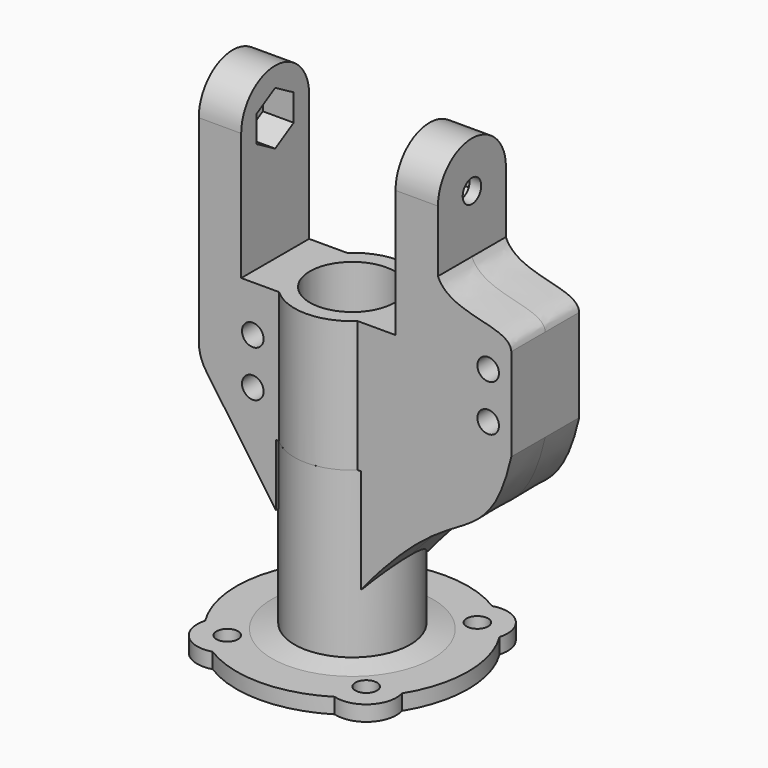
from build123d import *

# Parameters (mm, degrees)
SKETCH003_R          = 5.5
PAD002_DEPTH         = 17
SKETCH005_R          = 7.5
SKETCH005_R_2        = 5.5
PAD004_DEPTH         = 32
SKETCH001_W          = 5.5
SKETCH001_H          = 11
PAD006_DEPTH         = 31
SKETCH006_R          = 1.5
POCKET_DEPTH         = 15.501
POCKET_DEPTH_BACK    = 15.501
POCKET001_DEPTH      = 14
SKETCH004_R          = 1.4
PAD007_DEPTH         = 5.5
SKETCH008_R          = 1.4
PAD008_DEPTH         = 2
SKETCH009_R          = 1.4
POCKET002_DEPTH      = 15.001
POCKET002_DEPTH_BACK = 15.001
SKETCH012_R          = 5.5
POCKET004_DEPTH      = 32.001
POCKET011_DEPTH      = 15.501
POCKET011_DEPTH_BACK = 25.001


with BuildPart() as part:
    # Sketch003 → Pad002 (new body)
    with BuildSketch(Plane.XY.offset(9)):
        with BuildLine():
            ThreePointArc((-5.09902, -5.5), (0, -7.5), (5.09902, -5.5))
            Line((10, -5.5), (5.09902, -5.5))
            Line((10, 5.5), (10, -5.5))
            Line((5.09902, 5.5), (10, 5.5))
            ThreePointArc((5.09902, 5.5), (0, 7.5), (-5.09902, 5.5))
            Line((-10, 5.5), (-5.09902, 5.5))
            Line((-10, -5.5), (-10, 5.5))
            Line((-5.09902, -5.5), (-10, -5.5))
        make_face()
        Circle(SKETCH003_R, mode=Mode.SUBTRACT)
    extrude(amount=-PAD002_DEPTH)

    # Sketch005 → Pad004 (join)
    with BuildSketch(Plane.XY):
        Circle(SKETCH005_R)
        Circle(SKETCH005_R_2, mode=Mode.SUBTRACT)
    extrude(amount=-PAD004_DEPTH)

    # Sketch001 → Pad006 (join)
    with BuildSketch(Plane.XY):
        with Locations((-12.75, 0)):
            Rectangle(SKETCH001_W, SKETCH001_H)
        with Locations((12.75, 0)):
            Rectangle(SKETCH001_W, SKETCH001_H)
    extrude(amount=PAD006_DEPTH)

    # Sketch006 → Pocket (cut, two sides)
    with BuildSketch(Plane.YZ) as pocket_sk:
        with Locations((0, 24.995)):
            Circle(SKETCH006_R)
    extrude(amount=-POCKET_DEPTH, mode=Mode.SUBTRACT)
    extrude(pocket_sk.sketch, amount=POCKET_DEPTH_BACK, mode=Mode.SUBTRACT)

    # Sketch007 → Pocket001 (cut, symmetric)
    with BuildSketch(Plane.YZ):
        Polygon((3.000778, 23.2625), (3.000778, 26.7275), (0, 28.46), (-3.000778, 26.7275), (-3.000778, 23.2625), (0, 21.53), align=None)
    extrude(amount=POCKET001_DEPTH, both=True, mode=Mode.SUBTRACT)

    # Sketch004 → Pad007 (join, symmetric)
    with BuildSketch(Plane.XZ):
        with BuildLine():
            Line((-5.5, 0), (-15.5, 0))
            ThreePointArc((-15.5, 0), (-15.245443, -1.653882), (-14.505336, -3.15467))
            Line((-14.505336, -3.15467), (-5.5, -16.015623))
            Line((-5.5, -16.015623), (-5.5, 0))
        make_face()
        with BuildLine():
            Line((25, 0), (25, 12))
            add(Edge.make_bspline(
                [(25, 12), (24.769218, 14.83565), (17.079927, 13.648218), (15.5, 17.5)],
                knots=[0, 0, 0, 0, 1, 1, 1, 1], degree=3))
            Line((15.5, 17.5), (15.5, 12))
            Line((15.5, 12), (5.5, 0))
            Line((5.5, 0), (5.5, -21.515623))
            add(Edge.make_bspline(
                [(25, 0), (23.504808, -6.509229), (19.3409, -9.97636), (12.175439, -13.375515), (5.5, -21.515623)],
                knots=[0, 0, 0, 0, 0.5, 1, 1, 1, 1], degree=3))
        make_face()
        with Locations((22, 3)):
            Circle(SKETCH004_R, mode=Mode.SUBTRACT)
        with Locations((22, 9)):
            Circle(SKETCH004_R, mode=Mode.SUBTRACT)
    extrude(amount=PAD007_DEPTH, both=True)

    # Sketch008 → Pad008 (join)
    with BuildSketch(Plane.XY.offset(-32)):
        with BuildLine():
            ThreePointArc((-12.744677, 7.910323), (-15, 0), (-12.744677, -7.910323))
            ThreePointArc((-12.744677, -7.910323), (-11.757716, -11.757716), (-7.910323, -12.744677))
            ThreePointArc((-7.910323, -12.744677), (0, -15), (7.910323, -12.744677))
            ThreePointArc((7.910323, -12.744677), (11.757716, -11.757716), (12.744677, -7.910323))
            ThreePointArc((12.744677, -7.910323), (15, 0), (12.744677, 7.910323))
            ThreePointArc((12.744677, 7.910323), (11.757716, 11.757716), (7.910323, 12.744677))
            ThreePointArc((7.910323, 12.744677), (0, 15), (-7.910323, 12.744677))
            ThreePointArc((-7.910323, 12.744677), (-11.757716, 11.757716), (-12.744677, 7.910323))
        make_face()
        with Locations((9, 9)):
            Circle(SKETCH008_R, mode=Mode.SUBTRACT)
        with Locations((-9, 9)):
            Circle(SKETCH008_R, mode=Mode.SUBTRACT)
        with Locations((-9, -9)):
            Circle(SKETCH008_R, mode=Mode.SUBTRACT)
        with Locations((9, -9)):
            Circle(SKETCH008_R, mode=Mode.SUBTRACT)
    extrude(amount=PAD008_DEPTH)

    # Sketch009 → Pocket002 (cut, two sides)
    with BuildSketch(Plane.XZ) as pocket002_sk:
        with Locations((-8.5, 3)):
            Circle(SKETCH009_R)
        with Locations((-8.5, -3)):
            Circle(SKETCH009_R)
    extrude(amount=-POCKET002_DEPTH, mode=Mode.SUBTRACT)
    extrude(pocket002_sk.sketch, amount=POCKET002_DEPTH_BACK, mode=Mode.SUBTRACT)

    # Sketch011 → Revolution (revolve)
    with BuildSketch(Plane.XZ):
        Polygon((0, -29.995523), (10.423779, -29.995523), (0, -27.717957), align=None)
    revolve(axis=Axis((0, 0, 0), (0, 0, 1)))

    # Sketch012 → Pocket004 (cut, through all)
    with BuildSketch(Plane.XY):
        Circle(SKETCH012_R)
    extrude(amount=-POCKET004_DEPTH, mode=Mode.SUBTRACT)

    # Sketch032 → Pocket011 (cut, two sides)
    with BuildSketch(Plane.YZ) as pocket011_sk:
        with BuildLine():
            ThreePointArc((5.5, 25.5), (0, 31), (-5.5, 25.5))
            Line((-5.5, 25.5), (-5.5, 32))
            Line((-5.5, 32), (5.5, 32))
            Line((5.5, 25.5), (5.5, 32))
        make_face()
    extrude(amount=-POCKET011_DEPTH, mode=Mode.SUBTRACT)
    extrude(pocket011_sk.sketch, amount=POCKET011_DEPTH_BACK, mode=Mode.SUBTRACT)


solid = part.part
